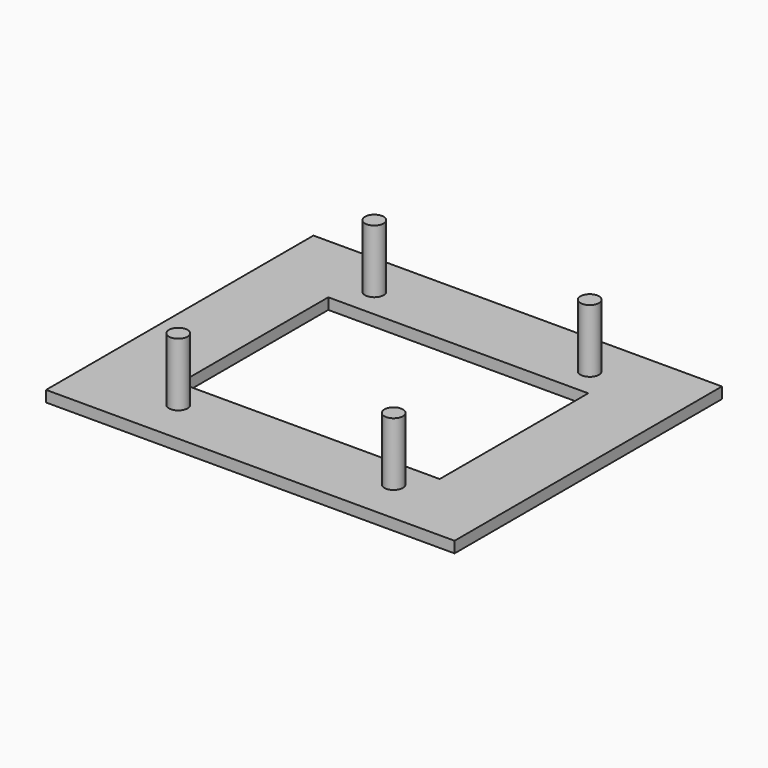
from build123d import *

# Parameters (mm, degrees)
F0_R     = 1.25
F1_DEPTH = 10
F0_W     = 55
F0_H     = 45
F0_W_2   = 35
F0_H_2   = 25
F2_DEPTH = 1.5


with BuildPart() as f1:
    # F0 (on Top) → F1 (new body)
    with BuildSketch(Plane.XY):
        with Locations((-14.5, 16.5)):
            Circle(F0_R)
        with Locations((-14.5, -16.5)):
            Circle(F0_R)
        with Locations((14.5, -16.5)):
            Circle(F0_R)
        with Locations((14.5, 16.5)):
            Circle(F0_R)
    extrude(amount=F1_DEPTH)


with BuildPart() as f2:
    # F0 (on Top) → F2 (new body)
    with BuildSketch(Plane.XY):
        Rectangle(F0_W, F0_H)
        with Locations((-14.5, -16.5)):
            Circle(F0_R, mode=Mode.SUBTRACT)
        with Locations((14.5, -16.5)):
            Circle(F0_R, mode=Mode.SUBTRACT)
        with Locations((-14.5, 16.5)):
            Circle(F0_R, mode=Mode.SUBTRACT)
        Rectangle(F0_W_2, F0_H_2, mode=Mode.SUBTRACT)
        with Locations((14.5, 16.5)):
            Circle(F0_R, mode=Mode.SUBTRACT)
    extrude(amount=F2_DEPTH)


solid = Compound([f1.part, f2.part])
